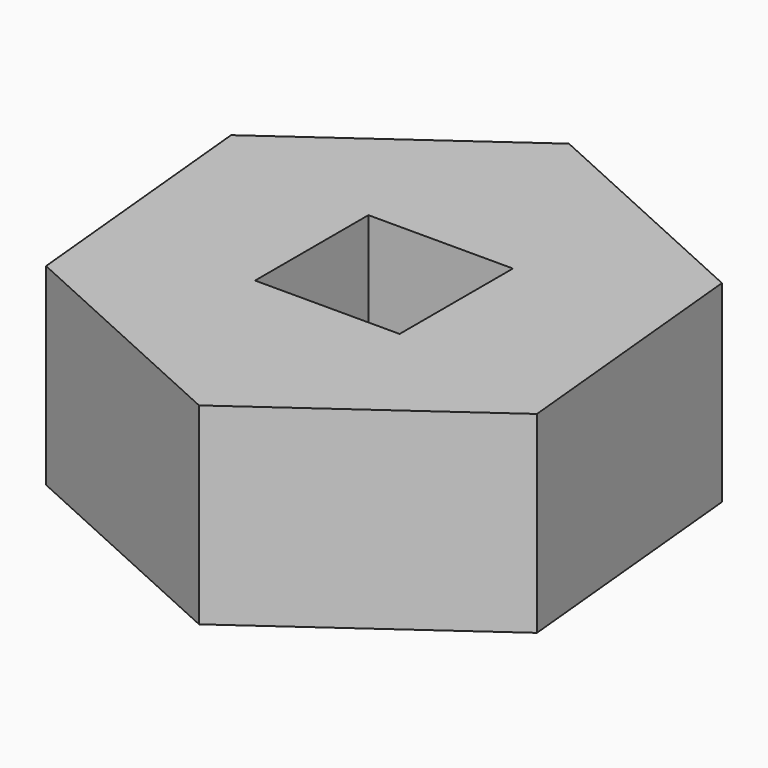
from build123d import *

# Parameters (mm, degrees)
F1_DEPTH = 5.08
F2_W     = 3.81
F2_H     = 3.734658
F3_DEPTH = 25.4


with BuildPart() as f1:
    # F0 (on Top) → F1 (new body)
    with BuildSketch(Plane.XY):
        Polygon((0.670957, -6.933342), (6.339929, -2.885605), (5.668971, 4.047737), (-0.670957, 6.933342), (-6.339929, 2.885605), (-5.668971, -4.047737), align=None)
    extrude(amount=F1_DEPTH)

    # F2 (on face) → F3 (cut)
    with BuildSketch(Plane.XY.offset(5.08)):
        Rectangle(F2_W, F2_H)
    extrude(amount=-F3_DEPTH, mode=Mode.SUBTRACT)


solid = f1.part
